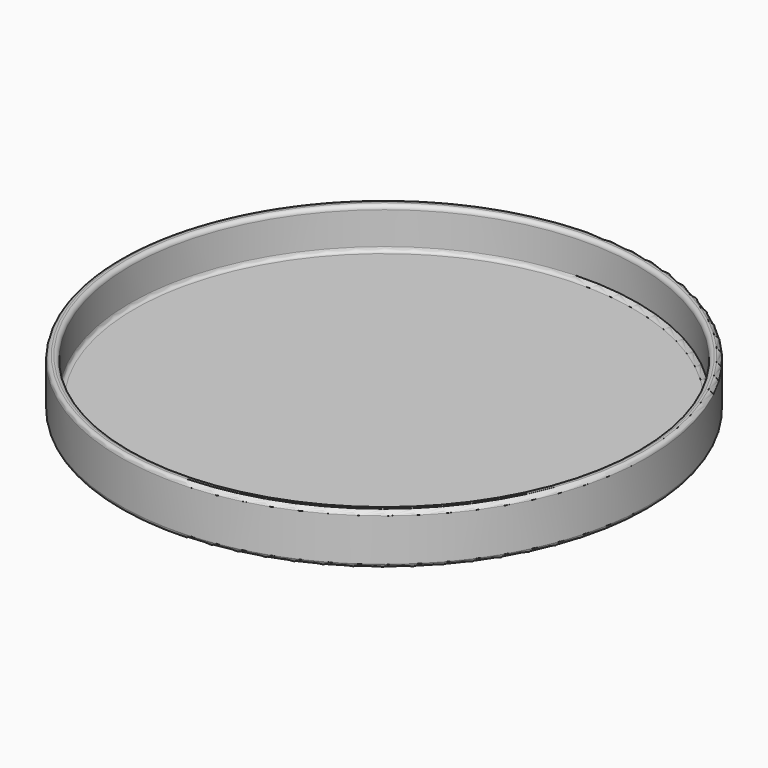
from build123d import *

# Parameters (mm, degrees)
CYLINDER001_R     = 50
CYLINDER001_DEPTH = 10
CYLINDER_R        = 52
CYLINDER_DEPTH    = 10
FILLET_R          = 0.8


with BuildPart() as cylinder001:
    # Cylinder001 → Cylinder001 (new body)
    with BuildSketch(Plane.XY.offset(2)):
        Circle(CYLINDER001_R)
    extrude(amount=CYLINDER001_DEPTH)


with BuildPart() as fillet_body:
    # Cylinder → Cylinder (new body)
    with BuildSketch(Plane.XY):
        Circle(CYLINDER_R)
    extrude(amount=CYLINDER_DEPTH)

    # Cut: cut Cylinder001
    add(cylinder001.part, mode=Mode.SUBTRACT)

    # Fillet
    fillet_edges = [fillet_body.edges().sort_by_distance(p)[0] for p in [
        (-52, 0, 10),
        (-52, 0, 0),
        (-50, 0, 10),
        (-50, 0, 2),
    ]]
    fillet(fillet_edges, radius=FILLET_R)


solid = fillet_body.part
